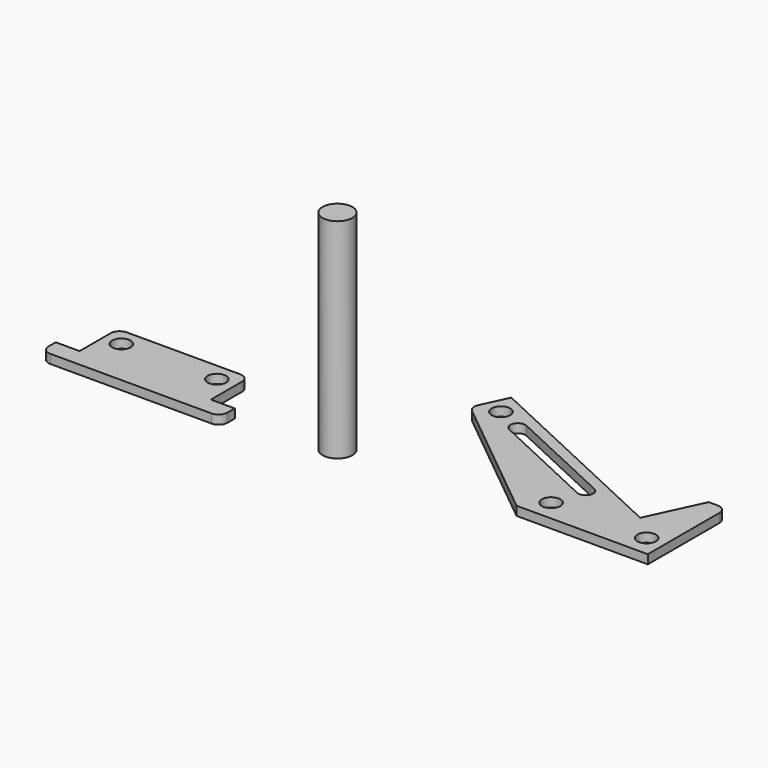
from build123d import *

# Parameters (mm, degrees)
F0_R     = 1.55
F1_DEPTH = 1.5
F2_R     = 1.55
F3_DEPTH = 1.5
F4_R     = 2.5
F5_DEPTH = 35


with BuildPart() as f1:
    # F0 (on Top) → F1 (new body)
    with BuildSketch(Plane.XY):
        with BuildLine():
            Line((-42, 5), (-42, 0))
            Line((-42, 0), (-42, -1.5))
            Line((-42, -1.5), (-46, -1.5))
            Line((-46, -1.5), (-46, -3))
            ThreePointArc((-46, -3), (-45.56066, -4.06066), (-44.5, -4.5))
            Line((-44.5, -4.5), (-17.5, -4.5))
            ThreePointArc((-17.5, -4.5), (-16.43934, -4.06066), (-16, -3))
            Line((-16, -3), (-16, -1.5))
            Line((-16, -1.5), (-20, -1.5))
            Line((-20, -1.5), (-20, 0))
            Line((-20, 0), (-20, 5))
            ThreePointArc((-20, 5), (-20.43934, 6.06066), (-21.5, 6.5))
            Line((-21.5, 6.5), (-40.5, 6.5))
            ThreePointArc((-40.5, 6.5), (-41.56066, 6.06066), (-42, 5))
        make_face()
        with Locations((-39, 3.5)):
            Circle(F0_R, mode=Mode.SUBTRACT)
        with Locations((-23, 3.5)):
            Circle(F0_R, mode=Mode.SUBTRACT)
    extrude(amount=F1_DEPTH)


with BuildPart() as f3:
    # F2 (on Top) → F3 (new body)
    with BuildSketch(Plane.XY):
        with BuildLine():
            Line((44.773817, 7.436922), (10.334121, 23.496416))
            Line((10.334121, 23.496416), (8.292581, 19.118319))
            ThreePointArc((8.292581, 19.118319), (8.190122, 18.148554), (8.70553, 17.320728))
            Line((8.70553, 17.320728), (30, 0))
            Line((30, 0), (52, 0))
            Line((52, 0), (52, 15))
            ThreePointArc((52, 15), (51.56066, 16.06066), (50.5, 16.5))
            Line((50.5, 16.5), (49, 16.5))
            Line((49, 16.5), (44.773817, 7.436922))
        make_face()
        with Locations((33, 3.5)):
            Circle(F2_R, mode=Mode.SUBTRACT)
        with Locations((49, 3.5)):
            Circle(F2_R, mode=Mode.SUBTRACT)
        with BuildLine():
            ThreePointArc((15.788456, 16.263662), (15.183844, 17.924819), (16.845002, 18.529431))
            Line((16.845002, 18.529431), (34.971158, 10.077066))
            ThreePointArc((34.971158, 10.077066), (35.575769, 8.415909), (33.914612, 7.811297))
            Line((33.914612, 7.811297), (15.788456, 16.263662))
        make_face(mode=Mode.SUBTRACT)
        with Locations((11.78519, 19.509638)):
            Circle(F2_R, mode=Mode.SUBTRACT)
    extrude(amount=F3_DEPTH)


with BuildPart() as f5:
    # F4 (on Top) → F5 (new body)
    with BuildSketch(Plane.XY):
        Circle(F4_R)
    extrude(amount=F5_DEPTH)


solid = Compound([f1.part, f3.part, f5.part])
